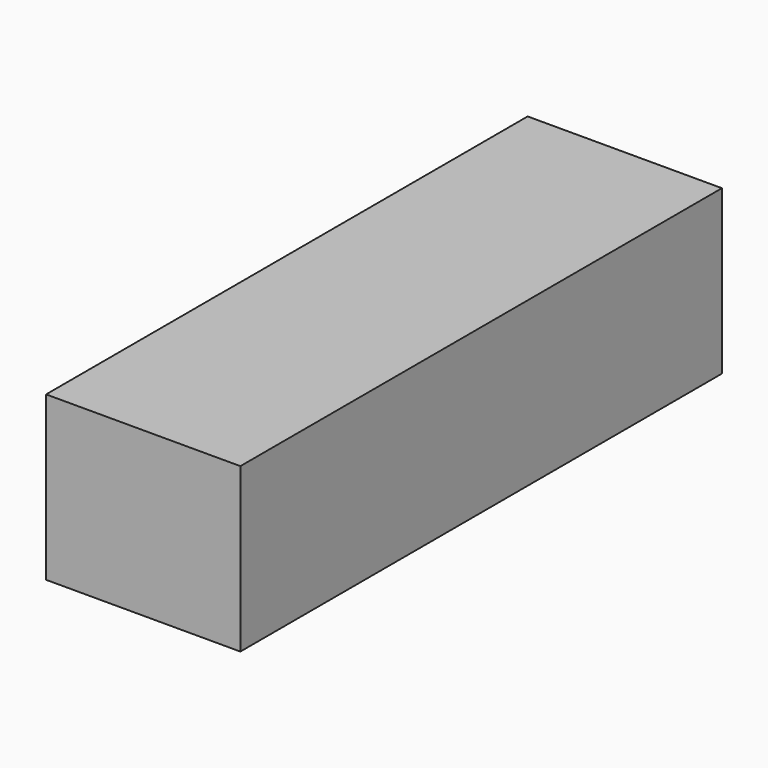
from build123d import *

# Parameters (mm, degrees)
F0_W     = 49.1870492697
F0_H     = 15.9335266799
F2_DEPTH = 76.2
F3_W     = 49.1870492697
F3_H     = 152.4
F4_DEPTH = 25.4


with BuildPart() as f2:
    # F0 (on Front) → F2 (new body, symmetric)
    with BuildSketch(Plane.XZ):
        with Locations((-254.9820020795, -25.0674979761)):
            Rectangle(F0_W, F0_H)
    extrude(amount=F2_DEPTH, both=True)

    # F3 (on face) → F4 (join)
    with BuildSketch(Plane.XY.offset(-17.1007346362)):
        with Locations((-254.9820020795, 0)):
            Rectangle(F3_W, F3_H)
    extrude(amount=F4_DEPTH)


solid = f2.part
